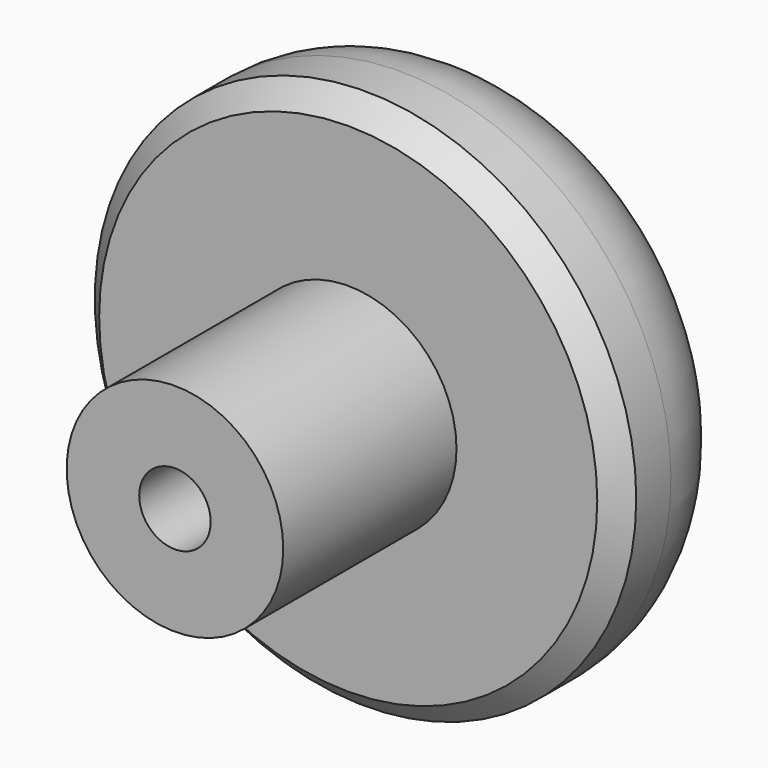
from build123d import *

# Parameters (mm, degrees)
F0_R     = 25
F1_DEPTH = 16
F2_R     = 10
F3_DEPTH = 20
F4_R     = 10
F5_SIZE  = 2
F7_D     = 6.6
F7_DEPTH = 13
F7_TIP   = 1.9828400428


with BuildPart() as f1:
    # F0 (on Front) → F1 (new body)
    with BuildSketch(Plane.XZ):
        Circle(F0_R)
    extrude(amount=F1_DEPTH)

    # F2 (on face) → F3 (join)
    with BuildSketch(Plane.XZ.offset(16)):
        Circle(F2_R)
    extrude(amount=F3_DEPTH)

    # F4
    f4_edges = [f1.edges().sort_by_distance(p)[0] for p in [
        (-25, 0, 0),
    ]]
    fillet(f4_edges, radius=F4_R)

    # F5
    f5_edges = [f1.edges().sort_by_distance(p)[0] for p in [
        (-25, -16, 0),
    ]]
    chamfer(f5_edges, length=F5_SIZE)

    # F7
    with Locations(Plane.XZ.offset(36)):
        with Locations((0, 0)):
            Hole(F7_D / 2, depth=F7_DEPTH)
            with Locations((0, 0, -(F7_DEPTH + F7_TIP / 2))):  # 118° drill point
                Cone(0, F7_D / 2, F7_TIP, mode=Mode.SUBTRACT)


solid = f1.part
